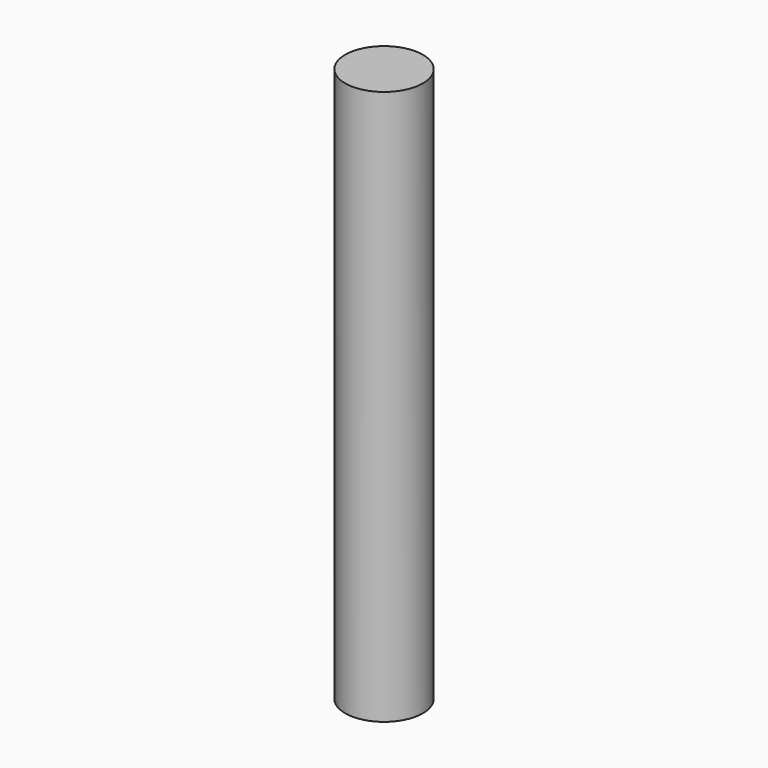
from build123d import *

# Parameters (mm, degrees)
SKETCH206_R  = 1.4
PAD102_DEPTH = 20


with BuildPart() as part:
    # Sketch206 → Pad102 (new body)
    with BuildSketch(Plane.XY):
        with Locations((4.173067, 2.45272)):
            Circle(SKETCH206_R)
    extrude(amount=PAD102_DEPTH)


solid = part.part
